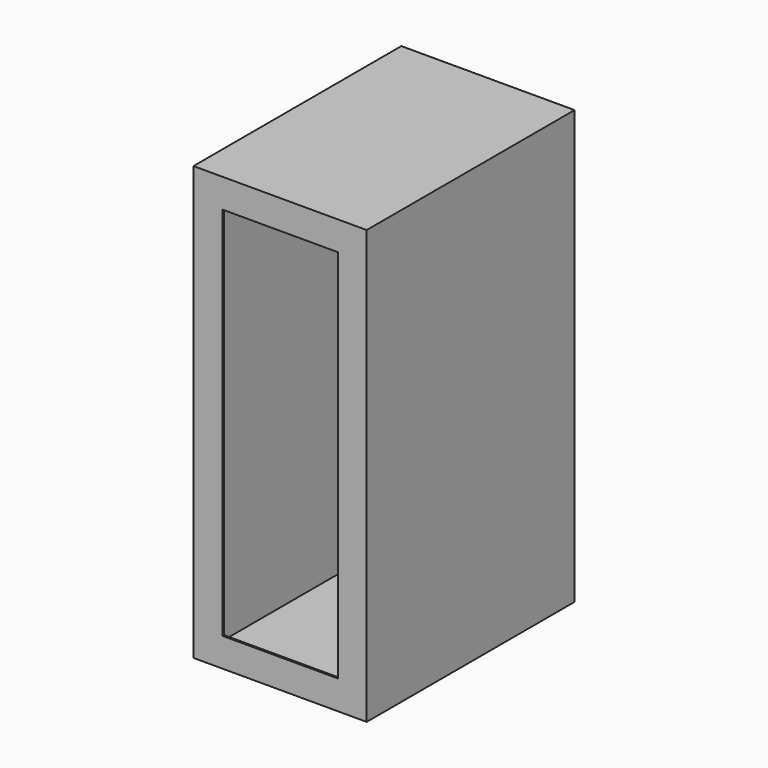
from build123d import *

# Parameters (mm, degrees)
F0_W     = 609.6
F0_H     = 914.4
F1_DEPTH = 1524
F2_T     = -6.35
F3_W     = 609.6
F3_H     = 1524
F3_W_2   = 406.4
F3_H_2   = 1320.8
F4_DEPTH = 6.35


with BuildPart() as f1:
    # F0 (on Top) → F1 (new body)
    with BuildSketch(Plane.XY):
        with Locations((-304.8, -457.2)):
            Rectangle(F0_W, F0_H)
    extrude(amount=F1_DEPTH)

    # F2
    f2_openings = [f1.faces().sort_by_distance(p)[0] for p in [
        (-304.8, -914.4, 762),
    ]]
    offset(amount=F2_T, openings=f2_openings)

    # F3 (on face) → F4 (join)
    with BuildSketch(Plane.XZ.offset(914.4)):
        with Locations((-304.8, 762)):
            Rectangle(F3_W, F3_H)
        with Locations((-304.8, 762)):
            Rectangle(F3_W_2, F3_H_2, mode=Mode.SUBTRACT)
    extrude(amount=-F4_DEPTH)


solid = f1.part
